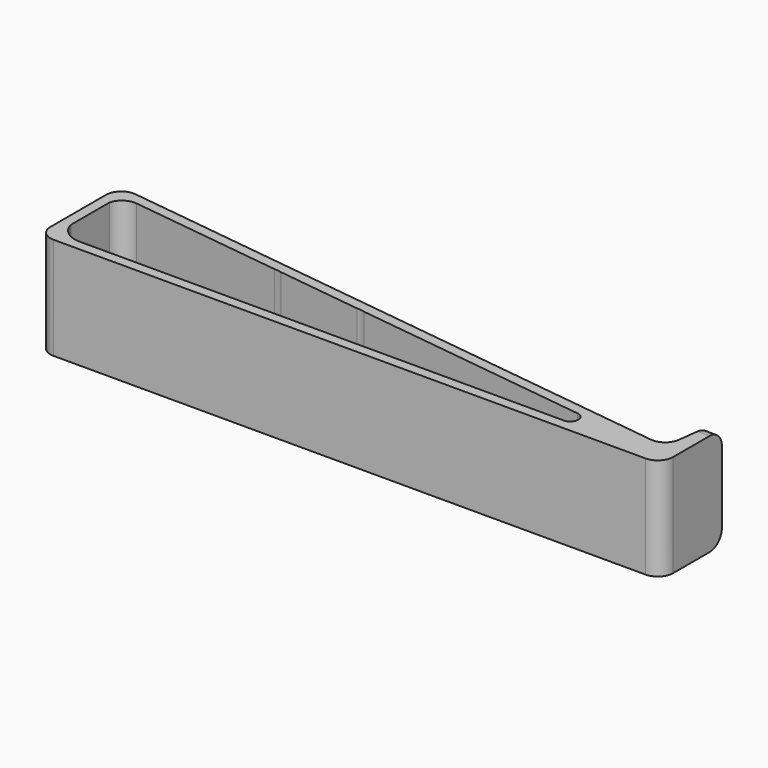
from build123d import *

# Parameters (mm, degrees)
F1_DEPTH      = 10
F1_DEPTH_BACK = 10
F2_DEPTH      = 2
F2_DEPTH_BACK = 2
F3_R          = 3


with BuildPart() as f1:
    # F0 (on Top) → F1 (new body, two sides)
    with BuildSketch(Plane.XY) as f1_sk:
        Polygon((-59.2774198156, 20), (-59.2774198156, 0), (59.2774198156, 0), (62.5326499412, 0), (62.5326499412, 14.9209070821), (60.5326499412, 14.9209070821), (59.2774198156, 5), align=None)
        with BuildLine():
            Line((-57.2774198156, 5.487030372), (-57.2774198156, 14.937681146))
            ThreePointArc((-57.2774198156, 14.937681146), (-56.0362820698, 16.769830707), (-53.888312773, 17.3022054044))
            Line((-53.888312773, 17.3022054044), (-53.8724083408, 17.3001931164))
            Line((-53.8724083408, 17.3001931164), (-23.888312773, 13.5064936359))
            ThreePointArc((-23.888312773, 13.5064936359), (-23.1661479004, 13.4609895281), (-22.4554066533, 13.3251970152))
            Line((-22.4554066533, 13.3251970152), (-5.8840475922, 11.2285269283))
            ThreePointArc((-5.8840475922, 11.2285269283), (-5.109007468, 11.1961309679), (-4.3503218976, 11.0344742393))
            Line((-4.3503218976, 11.0344742393), (42.1202175885, 5.1548484521))
            ThreePointArc((42.1202175885, 5.1548484521), (43.5106359985, 3.5774242261), (42.1202175885, 2))
            Line((42.1202175885, 2), (-5.4933972374, 2))
            ThreePointArc((-5.4933972374, 2), (-5.6887224148, 1.9958677209), (-5.8840475922, 2))
            Line((-5.8840475922, 2), (-23.888312773, 2))
            Line((-23.888312773, 2), (-53.1070120633, 2))
            ThreePointArc((-53.1070120633, 2), (-55.756346344, 3.0688282572), (-57.2774198156, 5.487030372))
        make_face(mode=Mode.SUBTRACT)
    extrude(amount=F1_DEPTH)
    extrude(f1_sk.sketch, amount=-F1_DEPTH_BACK)

    # F0 (on Top) → F2 (join, two sides)
    with BuildSketch(Plane.XY) as f2_sk:
        with BuildLine():
            ThreePointArc((-22.4554066533, 13.3251970152), (-18.1805700628, 7.0310819454), (-23.888312773, 2))
            Line((-23.888312773, 2), (-5.8840475922, 2))
            ThreePointArc((-5.8840475922, 2), (-10.3071181581, 6.6142634641), (-5.8840475922, 11.2285269283))
            Line((-5.8840475922, 11.2285269283), (-22.4554066533, 13.3251970152))
        make_face()
    extrude(amount=F2_DEPTH)
    extrude(f2_sk.sketch, amount=-F2_DEPTH_BACK)

    # F3
    f3_edges = [f1.edges().sort_by_distance(p)[0] for p in [
        (62.53265, 0, 0),
        (-59.27742, 0, 0),
        (-59.27742, 20, 0),
        (59.27742, 5, 0),
        (61.53265, 14.920907, -10),
        (61.53265, 14.920907, 10),
    ]]
    fillet(f3_edges, radius=F3_R)


solid = f1.part
